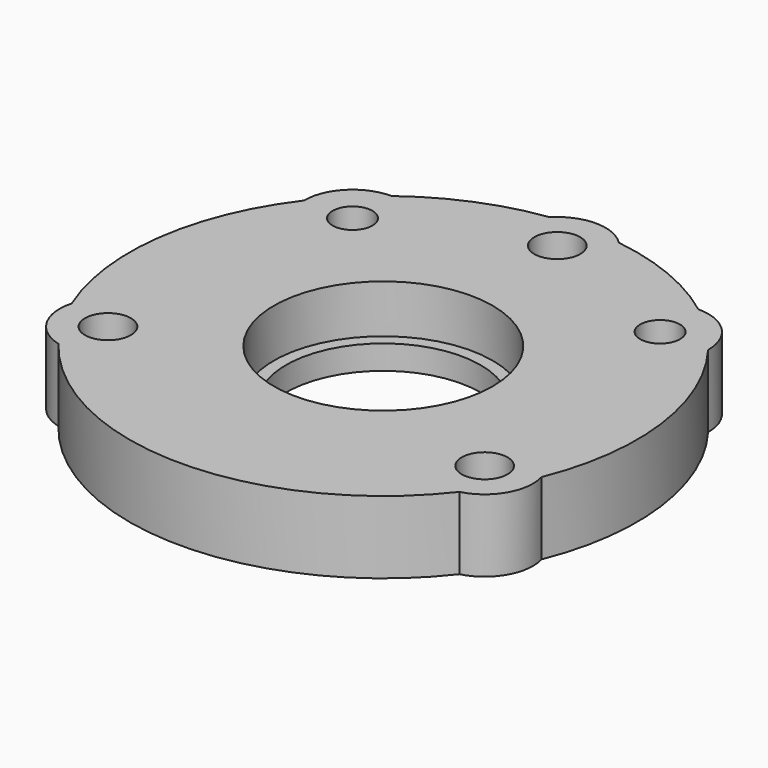
from build123d import *

# Parameters (mm, degrees)
SKETCH009_R     = 21
PAD002_DEPTH    = 6
SKETCH010_R     = 4
PAD003_DEPTH    = 6
SKETCH011_R     = 1.65
SKETCH011_R_2   = 1.9
POCKET007_DEPTH = 6.001
SKETCH012_R     = 9.05
POCKET008_DEPTH = 4
SKETCH013_R     = 8.05
POCKET009_DEPTH = 6.001


with BuildPart() as part:
    # Sketch009 → Pad002 (new body)
    with BuildSketch(Plane.XY):
        Circle(SKETCH009_R)
    extrude(amount=PAD002_DEPTH)

    # Sketch010 (on DatumPlane) → Pad003 (join)
    with BuildSketch(Plane.XY.offset(6)):
        with Locations((-12.727922, 12.727922)):
            Circle(SKETCH010_R)
        with Locations((0, 18)):
            Circle(SKETCH010_R)
        with Locations((12.727922, 12.727922)):
            Circle(SKETCH010_R)
        with Locations((15.588457, -9)):
            Circle(SKETCH010_R)
        with Locations((-15.588457, -9)):
            Circle(SKETCH010_R)
    extrude(amount=-PAD003_DEPTH)

    # Sketch011 (on DatumPlane) → Pocket007 (cut, through all)
    with BuildSketch(Plane.XY.offset(6)):
        with Locations((-12.727922, 12.727922)):
            Circle(SKETCH011_R)
        with Locations((0, 18)):
            Circle(SKETCH011_R_2)
        with Locations((12.727922, 12.727922)):
            Circle(SKETCH011_R)
        with Locations((-15.588457, -9)):
            Circle(SKETCH011_R_2)
        with Locations((15.588457, -9)):
            Circle(SKETCH011_R_2)
    extrude(amount=-POCKET007_DEPTH, mode=Mode.SUBTRACT)

    # Sketch012 (on DatumPlane) → Pocket008 (cut)
    with BuildSketch(Plane.XY.offset(6)):
        Circle(SKETCH012_R)
    extrude(amount=-POCKET008_DEPTH, mode=Mode.SUBTRACT)

    # Sketch013 (on DatumPlane) → Pocket009 (cut, through all)
    with BuildSketch(Plane.XY.offset(6)):
        Circle(SKETCH013_R)
    extrude(amount=-POCKET009_DEPTH, mode=Mode.SUBTRACT)


with BuildPart() as part_1:
    # Body001 placement: moved
    add(part.part.moved(Location((0, 0, 14))))


solid = part_1.part
